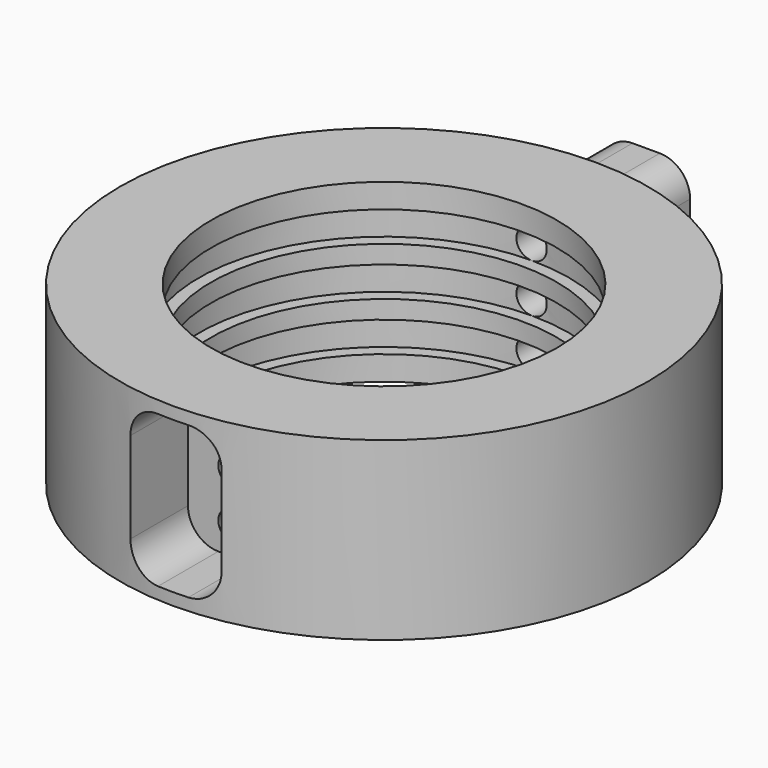
from build123d import *

# Parameters (mm, degrees)
F3_W     = 15
F3_H     = 25
F4_DEPTH = 12.5
F6_W     = 14.5
F6_H     = 24.5
F7_DEPTH = 14
F8_D     = 5
F9_R     = 5


with BuildPart() as f1:
    # F0 (on Front) → F1 (revolve)
    with BuildSketch(Plane.XZ):
        Polygon((43.5, 14.5), (28.5, 14.5), (28.5, 10.5), (30.5, 10.5), (30.5, 5.5), (28.5, 5.5), (28.5, 2.5), (30.5, 2.5), (30.5, -2.5), (28.5, -2.5), (28.5, -5.5), (30.5, -5.5), (30.5, -10.5), (28.5, -10.5), (28.5, -14.5), (43.5, -14.5), align=None)
    revolve(axis=Axis((0, 0, 1.261241), (0, 0, -1)))

    # F3 (on offset) → F4 (cut)
    with BuildSketch(Plane.XZ.offset(43.5)):
        Rectangle(F3_W, F3_H)
    extrude(amount=-F4_DEPTH, mode=Mode.SUBTRACT)

    # F6 (on offset) → F7 (join)
    with BuildSketch(Plane.XZ.offset(-40)):
        Rectangle(F6_W, F6_H)
    extrude(amount=-F7_DEPTH)

    # F8 (through all)
    with Locations(Plane.XZ.offset(43.5)):
        with Locations((0, 8), (0, 0), (0, -8)):
            Hole(F8_D / 2)

    # F9
    f9_edges = [f1.edges().sort_by_distance(p)[0] for p in [
        (-7.5, -36.924285, 12.5),
        (7.5, -36.924285, 12.5),
        (-7.5, -36.924285, -12.5),
        (7.5, -36.924285, -12.5),
        (7.25, 48.445789, 12.25),
        (-7.25, 48.445789, 12.25),
        (7.25, 48.445789, -12.25),
        (-7.25, 48.445789, -12.25),
    ]]
    fillet(f9_edges, radius=F9_R)


solid = f1.part
